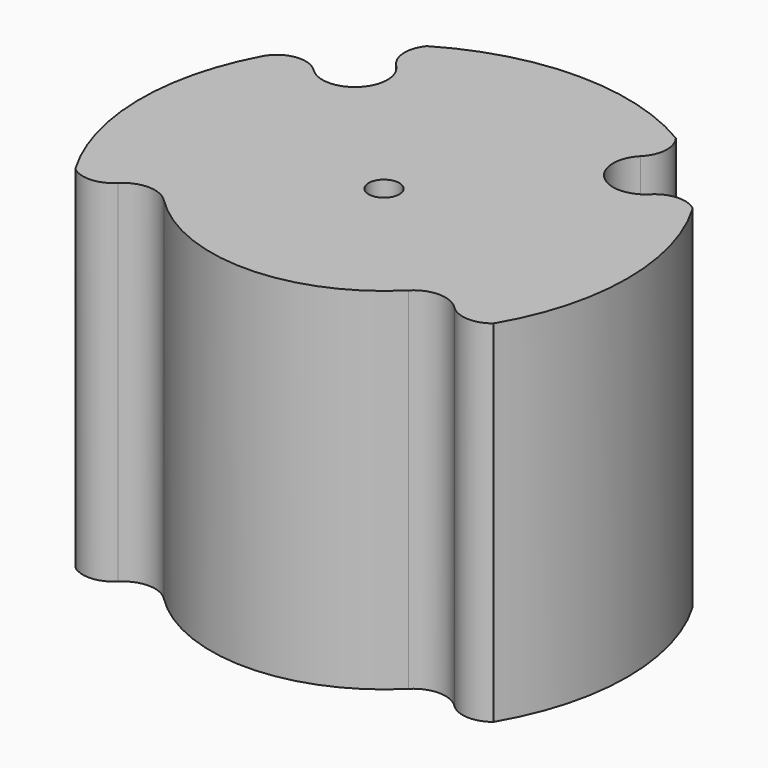
from build123d import *

# Parameters (mm, degrees)
PAD_DEPTH       = 40
POCKET_DEPTH    = 35
FILLET_R        = 2
SKETCH002_R     = 1.75
POCKET001_DEPTH = 40.001


with BuildPart() as part:
    # Sketch → Pad (new body)
    with BuildSketch(Plane.XY):
        with BuildLine():
            ThreePointArc((14.201108, 23.840953), (-0.00078, 27.75), (-14.202448, 23.840154))
            ThreePointArc((-14.202448, 23.840154), (-14.967616, 21.462867), (-13.949732, 19.182322))
            ThreePointArc((-19.182322, 13.949732), (-13.949732, 13.949732), (-13.949732, 19.182322))
            ThreePointArc((-19.182322, 13.949732), (-21.992232, 14.881289), (-24.417911, 13.184389))
            ThreePointArc((-24.417911, 13.184389), (-27.743827, -0.585306), (-23.840136, -14.202479))
            ThreePointArc((-23.840136, -14.202479), (-21.462853, -14.967618), (-19.182322, -13.949732))
            ThreePointArc((-13.949732, -13.949732), (-16.566027, -12.866027), (-19.182322, -13.949732))
            ThreePointArc((-13.949732, -13.949732), (0, -19.7279), (13.949732, -13.949732))
            ThreePointArc((19.182322, -13.949732), (16.566027, -12.866027), (13.949732, -13.949732))
            ThreePointArc((19.182322, -13.949732), (21.462854, -14.967618), (23.840137, -14.202477))
            ThreePointArc((23.840137, -14.202477), (27.75, -4.3e-05), (23.840181, 14.202403))
            ThreePointArc((23.840181, 14.202403), (21.462879, 14.967595), (19.182307, 13.949717))
            ThreePointArc((13.934503, 19.167004), (13.957373, 13.942113), (19.182307, 13.949717))
            ThreePointArc((13.934503, 19.167004), (14.950896, 21.453606), (14.201108, 23.840953))
        make_face()
    extrude(amount=PAD_DEPTH)

    # Sketch001 (on Face15 of Pad) → Pocket (cut)
    with BuildSketch(Plane(origin=(0, 0, 0), x_dir=(1, 0, 0), z_dir=(0, 0, -1))):
        with BuildLine():
            ThreePointArc((-21.578938, 12.120723), (-16.766795, 9.869036), (-11.828409, 11.828414))
            ThreePointArc((11.828412, 11.828411), (2e-06, 16.7279), (-11.828409, 11.828414))
            ThreePointArc((11.828412, 11.828411), (16.766797, 9.869036), (21.578938, 12.120723))
            ThreePointArc((21.578938, -12.120723), (24.75, 0), (21.578938, 12.120723))
            ThreePointArc((21.578938, -12.120723), (11.828412, -11.828412), (12.120723, -21.578938))
            ThreePointArc((-12.120723, -21.578938), (0, -24.75), (12.120723, -21.578938))
            ThreePointArc((-12.120723, -21.578938), (-11.828412, -11.828412), (-21.578938, -12.120723))
            ThreePointArc((-21.578938, 12.120723), (-24.75, 0), (-21.578938, -12.120723))
        make_face()
    extrude(amount=-POCKET_DEPTH, mode=Mode.SUBTRACT)

    # Fillet
    fillet_edges = [part.edges().sort_by_distance(p)[0] for p in [
        (-21.578938, 12.120723, 17.5),
        (-12.120723, 21.578938, 17.5),
        (12.120723, 21.578938, 17.5),
        (21.578938, 12.120723, 17.5),
        (21.578938, -12.120723, 17.5),
        (-21.578938, -12.120723, 17.5),
    ]]
    fillet(fillet_edges, radius=FILLET_R)

    # Sketch002 (on Face31 of Fillet) → Pocket001 (cut, through all)
    with BuildSketch(Plane.XY.offset(40)):
        Circle(SKETCH002_R)
    extrude(amount=-POCKET001_DEPTH, mode=Mode.SUBTRACT)


solid = part.part
